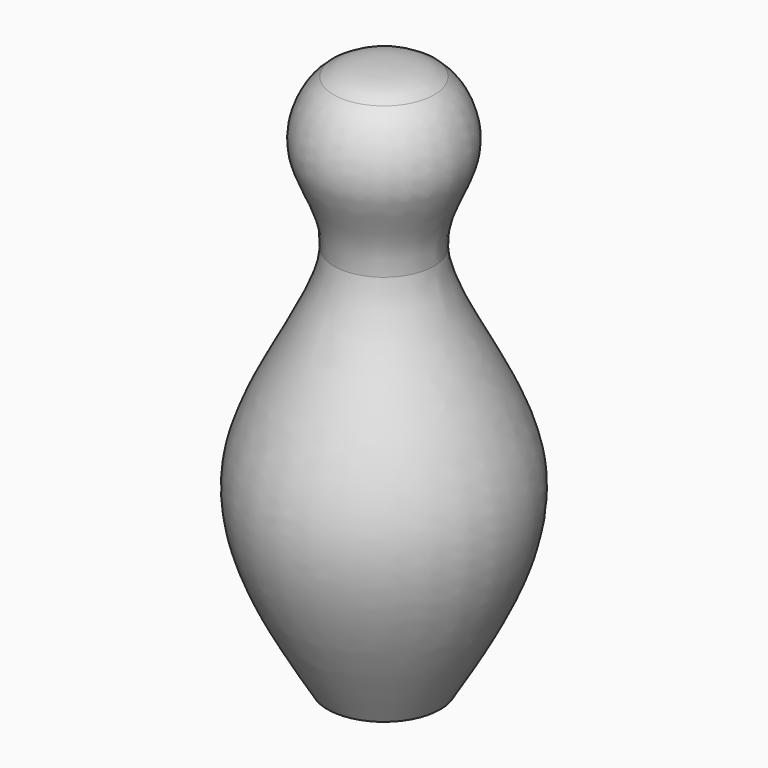
from build123d import *


with BuildPart() as f1:
    # F0 (on Front) → F1 (revolve)
    with BuildSketch(Plane.XZ):
        with BuildLine():
            add(Edge.make_bspline(
                [(10.16, 52.6581498007), (7.2562919254, 54.8532412268), (3.6281459627, 54.9125332791), (0, 54.9718253314)],
                knots=[0.8666284939, 0.8666284939, 0.8666284939, 0.8666284939, 1, 1, 1, 1], degree=3))
            Line((0, 54.9718253314), (0, 52.6581498007))
            Line((0, 52.6581498007), (10.16, 52.6581498007))
        make_face()
        with BuildLine():
            Line((10.16, 52.6581498007), (0, 52.6581498007))
            Line((0, 52.6581498007), (0, 39.8333789781))
            Line((0, 39.8333789781), (15.24, 39.8333789781))
            add(Edge.make_bspline(
                [(15.24, 39.8333789781), (15.8828168671, 44.7795481251), (13.5009173998, 50.13254497), (10.16, 52.6581498007)],
                knots=[0.7131753319, 0.7131753319, 0.7131753319, 0.7131753319, 0.8666284939, 0.8666284939, 0.8666284939, 0.8666284939], degree=3))
        make_face()
        with BuildLine():
            Line((15.24, 39.8333789781), (0, 39.8333789781))
            Line((0, 39.8333789781), (0, 22.0533789781))
            Line((0, 22.0533789781), (10.16, 22.0533789781))
            add(Edge.make_bspline(
                [(10.16, 22.0533789781), (9.6967846506, 28.9253028646), (14.4957409066, 34.1066602911), (15.24, 39.8333789781)],
                knots=[0.5355058943, 0.5355058943, 0.5355058943, 0.5355058943, 0.7131753319, 0.7131753319, 0.7131753319, 0.7131753319], degree=3))
        make_face()
        with BuildLine():
            Line((10.16, 22.0533789781), (0, 22.0533789781))
            Line((0, 22.0533789781), (0, -15.5118849547))
            Line((0, -15.5118849547), (25.4, -15.5118849547))
            add(Edge.make_bspline(
                [(25.4, -15.5118849547), (23.0679956988, -2.0025930241), (10.8458566859, 11.8785111796), (10.16, 22.0533789781)],
                knots=[0.2724408388, 0.2724408388, 0.2724408388, 0.2724408388, 0.5355058943, 0.5355058943, 0.5355058943, 0.5355058943], degree=3))
        make_face()
        with BuildLine():
            Line((25.4, -15.5118849547), (0, -15.5118849547))
            Line((0, -15.5118849547), (0, -56.6866210219))
            Line((0, -56.6866210219), (11.43, -56.6866210219))
            add(Edge.make_bspline(
                [(11.43, -56.6866210219), (19.6225591086, -43.0946382512), (27.8151182172, -29.5026554804), (25.4, -15.5118849547)],
                knots=[0, 0, 0, 0, 0.2724408388, 0.2724408388, 0.2724408388, 0.2724408388], degree=3))
        make_face()
    revolve(axis=Axis((0, 0, 0.4633789781), (0, 0, -1)))


solid = f1.part
